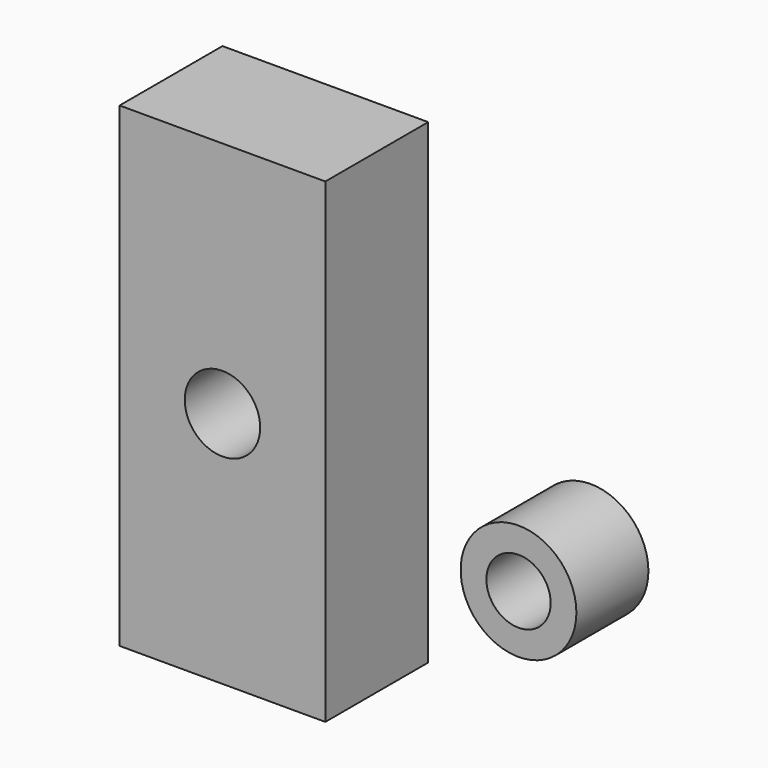
from build123d import *

# Parameters (mm, degrees)
F0_W     = 16
F0_H     = 37
F0_R     = 2.9335
F1_DEPTH = 10
F2_R     = 4.5
F2_R_2   = 2.5
F3_DEPTH = 7


with BuildPart() as f1:
    # F0 (on Front) → F1 (new body)
    with BuildSketch(Plane.XZ):
        Rectangle(F0_W, F0_H)
        Circle(F0_R, mode=Mode.SUBTRACT)
    extrude(amount=F1_DEPTH)


with BuildPart() as f3:
    # F2 (on face) → F3 (new body)
    with BuildSketch(Plane.XZ.offset(10)):
        with Locations((28.623779, 0)):
            Circle(F2_R)
        with Locations((28.623779, 0)):
            Circle(F2_R_2, mode=Mode.SUBTRACT)
    extrude(amount=F3_DEPTH)


solid = Compound([f1.part, f3.part])
